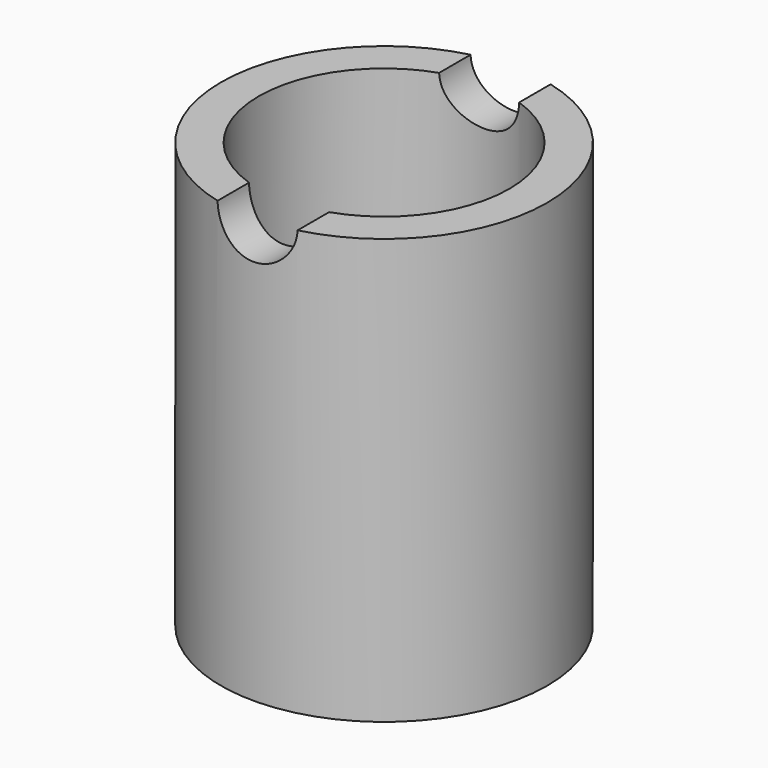
from build123d import *

# Parameters (mm, degrees)
F0_R     = 23.401279
F1_DEPTH = 61
F3_R     = 17.983402
F4_DEPTH = 50
F6_R     = 5.743652
F7_DEPTH = 63.5


with BuildPart() as f1:
    # F0 (on Top) → F1 (new body)
    with BuildSketch(Plane.XY):
        Circle(F0_R)
    extrude(amount=F1_DEPTH)

    # F3 (on offset) → F4 (cut)
    with BuildSketch(Plane.XY.offset(61)):
        Circle(F3_R)
    extrude(amount=-F4_DEPTH, mode=Mode.SUBTRACT)

    # F6 (on offset) → F7 (cut)
    with BuildSketch(Plane.XZ.offset(25)):
        with Locations((0, 61.185386)):
            Circle(F6_R)
    extrude(amount=-F7_DEPTH, mode=Mode.SUBTRACT)


solid = f1.part
